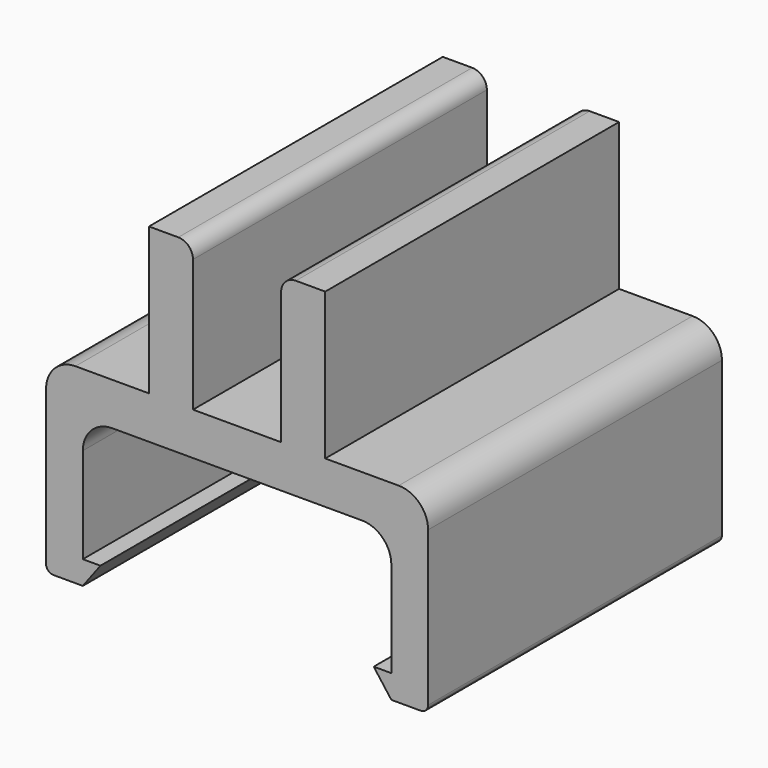
from build123d import *

# Parameters (mm, degrees)
F1_DEPTH = 25
F2_R     = 2
F3_R     = 2
F4_R     = 1
F5_R     = 0.5


with BuildPart() as f1:
    # F0 (on Front) → F1 (new body)
    with BuildSketch(Plane.XZ):
        Polygon((-13.5, -15.483479), (-13.5, -6.983479), (7.5, -6.983479), (7.5, -15.483479), (6.3, -15.483479), (7.5, -17.083479), (10, -17.083479), (10, -4.083479), (3, -4.083479), (3, 5.916521), (0, 5.916521), (0, -4.083479), (-6, -4.083479), (-6, 5.916521), (-9, 5.916521), (-9, -4.083479), (-16, -4.083479), (-16, -17.083479), (-13.5, -17.083479), (-12.3, -15.483479), align=None)
    extrude(amount=F1_DEPTH)

    # F2
    f2_edges = [f1.edges().sort_by_distance(p)[0] for p in [
        (-13.5, -12.5, -6.983479),
        (7.5, -12.5, -6.983479),
    ]]
    fillet(f2_edges, radius=F2_R)

    # F3
    f3_edges = [f1.edges().sort_by_distance(p)[0] for p in [
        (10, -12.5, -4.083479),
        (-16, -12.5, -4.083479),
    ]]
    fillet(f3_edges, radius=F3_R)

    # F4
    f4_edges = [f1.edges().sort_by_distance(p)[0] for p in [
        (-6, -12.5, 5.916521),
        (0, -12.5, 5.916521),
    ]]
    fillet(f4_edges, radius=F4_R)

    # F5
    f5_edges = [f1.edges().sort_by_distance(p)[0] for p in [
        (10, -12.5, -17.083479),
        (-16, -12.5, -17.083479),
    ]]
    fillet(f5_edges, radius=F5_R)


solid = f1.part
